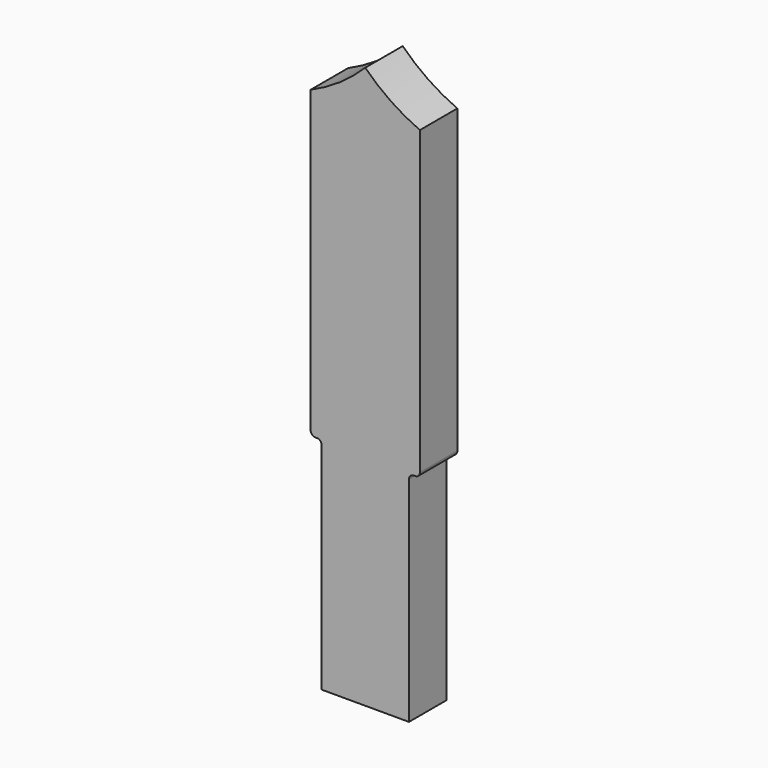
from build123d import *

# Parameters (mm, degrees)
F1_DEPTH = 19.05


with BuildPart() as f1:
    # F0 (on Front) → F1 (new body)
    with BuildSketch(Plane.XZ):
        with BuildLine():
            Line((-17.78, -114.3), (17.78, -114.3))
            Line((17.78, -114.3), (17.78, -27.305))
            ThreePointArc((17.78, -27.305), (18.337962, -25.957962), (19.685, -25.4))
            Line((19.685, -25.4), (20.32, -25.4))
            ThreePointArc((20.32, -25.4), (21.667038, -24.842038), (22.225, -23.495))
            Line((22.225, -23.495), (22.225, 99.185287))
            ThreePointArc((22.225, 99.185287), (10.399365, 105.694035), (0, 114.3))
            ThreePointArc((0, 114.3), (-10.399365, 105.694035), (-22.225, 99.185287))
            Line((-22.225, 99.185287), (-22.225, -22.86))
            ThreePointArc((-22.225, -22.86), (-21.667038, -24.207038), (-20.32, -24.765))
            Line((-20.32, -24.765), (-19.685, -24.765))
            ThreePointArc((-19.685, -24.765), (-18.337962, -25.322962), (-17.78, -26.67))
            Line((-17.78, -26.67), (-17.78, -114.3))
        make_face()
    extrude(amount=F1_DEPTH)


solid = f1.part
